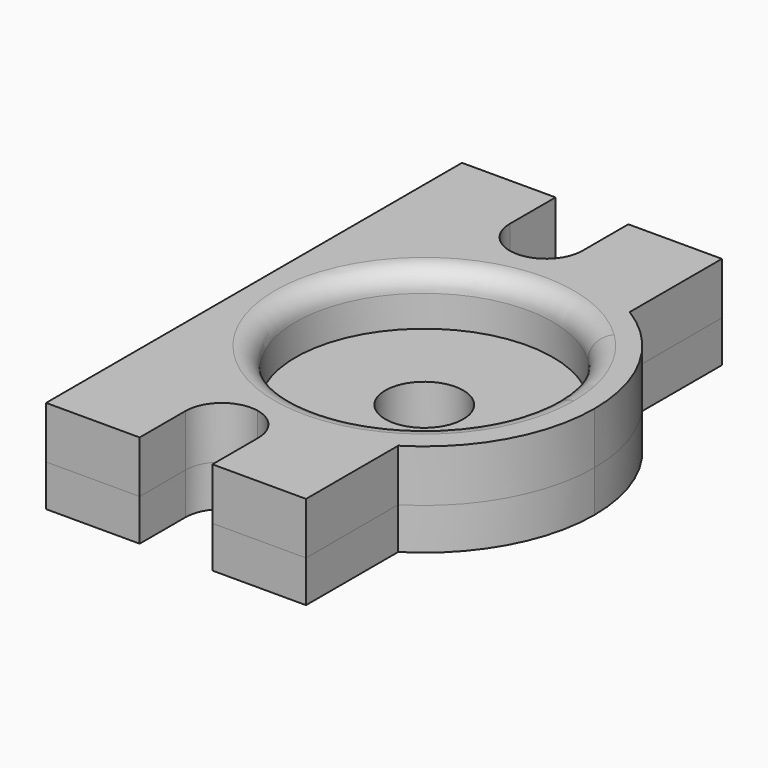
from build123d import *

# Parameters (mm, degrees)
F0_R     = 1.905
F1_DEPTH = 2.032
F2_DEPTH = 2.54
F3_R     = 1.016


with BuildPart() as f1:
    # F0 (on Top) → F1 (new body)
    with BuildSketch(Plane.XY):
        with BuildLine():
            Line((6.35, 4.5080527947), (6.35, 7.0710607408))
            ThreePointArc((6.35, 7.0710607408), (3.4516559454, 8.1852117072), (0.3466541063, 8.1588637779))
            ThreePointArc((0.3466541063, 8.1588637779), (-4.4614598428, 5.2775997073), (-6.35, 1.93e-08))
            ThreePointArc((-6.35, 1.93e-08), (-4.4614598575, -5.2775996893), (0.3466540985, -8.1588637764))
            ThreePointArc((0.3466540985, -8.1588637764), (3.4516559415, -8.1852117079), (6.35, -7.0710607408))
            Line((6.35, -7.0710607408), (6.35, -4.5080527947))
            ThreePointArc((6.35, -4.5080527947), (-4.318, 0), (6.35, 4.5080527947))
        make_face()
        with BuildLine():
            Line((6.35, -4.5080527947), (6.35, 4.5080527947))
            ThreePointArc((6.35, 4.5080527947), (-4.318, 0), (6.35, -4.5080527947))
        make_face()
        with Locations((1.9685, 0)):
            Circle(F0_R, mode=Mode.SUBTRACT)
        with BuildLine():
            ThreePointArc((8.255, 0), (7.7591986625, 2.4470168062), (6.35, 4.5080527947))
            Line((6.35, 4.5080527947), (6.35, -4.5080527947))
            ThreePointArc((6.35, -4.5080527947), (7.7591986625, -2.4470168062), (8.255, 0))
        make_face()
        with BuildLine():
            ThreePointArc((10.287, 0), (9.2364071953, 4.0465994675), (6.35, 7.0710607408))
            Line((6.35, 7.0710607408), (6.35, 4.5080527947))
            ThreePointArc((6.35, 4.5080527947), (7.7591986625, 2.4470168062), (8.255, 0))
            ThreePointArc((8.255, 0), (7.7591986625, -2.4470168062), (6.35, -4.5080527947))
            Line((6.35, -4.5080527947), (6.35, -7.0710607408))
            ThreePointArc((6.35, -7.0710607408), (9.2364071953, -4.0465994675), (10.287, 0))
        make_face()
        with BuildLine():
            Line((-1.778, 9.9027430543), (-1.778, 12.7))
            Line((-1.778, 12.7), (-6.35, 12.7))
            Line((-6.35, 12.7), (-6.35, 1.93e-08))
            ThreePointArc((-6.35, 1.93e-08), (-4.4614598428, 5.2775997073), (0.3466541063, 8.1588637779))
            ThreePointArc((0.3466541063, 8.1588637779), (-1.1280365683, 8.528400484), (-1.778, 9.9027430543))
        make_face()
        with BuildLine():
            Line((6.35, 7.0710607408), (6.35, 12.7))
            Line((6.35, 12.7), (1.778, 12.7))
            Line((1.778, 12.7), (1.778, 9.9027430543))
            ThreePointArc((1.778, 9.9027430543), (1.3743425703, 8.774706486), (0.3466541063, 8.1588637779))
            ThreePointArc((0.3466541063, 8.1588637779), (3.4516559454, 8.1852117072), (6.35, 7.0710607408))
        make_face()
        with BuildLine():
            Line((6.35, -12.7), (6.35, -7.0710607408))
            ThreePointArc((6.35, -7.0710607408), (3.4516559415, -8.1852117079), (0.3466540985, -8.1588637764))
            ThreePointArc((0.3466540985, -8.1588637764), (1.3743425678, -8.7747064829), (1.778, -9.9027430543))
            Line((1.778, -9.9027430543), (1.778, -12.7))
            Line((1.778, -12.7), (6.35, -12.7))
        make_face()
        with BuildLine():
            ThreePointArc((0.3466540985, -8.1588637764), (-4.4614598575, -5.2775996893), (-6.35, 1.93e-08))
            Line((-6.35, 1.93e-08), (-6.35, -12.7))
            Line((-6.35, -12.7), (-1.778, -12.7))
            Line((-1.778, -12.7), (-1.778, -9.9027430543))
            ThreePointArc((-1.778, -9.9027430543), (-1.1280365714, -8.5284004866), (0.3466540985, -8.1588637764))
        make_face()
    extrude(amount=-F1_DEPTH)

    # F0 (on Top) → F2 (join)
    with BuildSketch(Plane.XY):
        with BuildLine():
            Line((6.35, 4.5080527947), (6.35, 7.0710607408))
            ThreePointArc((6.35, 7.0710607408), (3.4516559454, 8.1852117072), (0.3466541063, 8.1588637779))
            ThreePointArc((0.3466541063, 8.1588637779), (-4.4614598428, 5.2775997073), (-6.35, 1.93e-08))
            ThreePointArc((-6.35, 1.93e-08), (-4.4614598575, -5.2775996893), (0.3466540985, -8.1588637764))
            ThreePointArc((0.3466540985, -8.1588637764), (3.4516559415, -8.1852117079), (6.35, -7.0710607408))
            Line((6.35, -7.0710607408), (6.35, -4.5080527947))
            ThreePointArc((6.35, -4.5080527947), (-4.318, 0), (6.35, 4.5080527947))
        make_face()
        with BuildLine():
            ThreePointArc((10.287, 0), (9.2364071953, 4.0465994675), (6.35, 7.0710607408))
            Line((6.35, 7.0710607408), (6.35, 4.5080527947))
            ThreePointArc((6.35, 4.5080527947), (7.7591986625, 2.4470168062), (8.255, 0))
            ThreePointArc((8.255, 0), (7.7591986625, -2.4470168062), (6.35, -4.5080527947))
            Line((6.35, -4.5080527947), (6.35, -7.0710607408))
            ThreePointArc((6.35, -7.0710607408), (9.2364071953, -4.0465994675), (10.287, 0))
        make_face()
        with BuildLine():
            Line((6.35, 7.0710607408), (6.35, 12.7))
            Line((6.35, 12.7), (1.778, 12.7))
            Line((1.778, 12.7), (1.778, 9.9027430543))
            ThreePointArc((1.778, 9.9027430543), (1.3743425703, 8.774706486), (0.3466541063, 8.1588637779))
            ThreePointArc((0.3466541063, 8.1588637779), (3.4516559454, 8.1852117072), (6.35, 7.0710607408))
        make_face()
        with BuildLine():
            Line((-1.778, 9.9027430543), (-1.778, 12.7))
            Line((-1.778, 12.7), (-6.35, 12.7))
            Line((-6.35, 12.7), (-6.35, 1.93e-08))
            ThreePointArc((-6.35, 1.93e-08), (-4.4614598428, 5.2775997073), (0.3466541063, 8.1588637779))
            ThreePointArc((0.3466541063, 8.1588637779), (-1.1280365683, 8.528400484), (-1.778, 9.9027430543))
        make_face()
        with BuildLine():
            Line((6.35, -12.7), (6.35, -7.0710607408))
            ThreePointArc((6.35, -7.0710607408), (3.4516559415, -8.1852117079), (0.3466540985, -8.1588637764))
            ThreePointArc((0.3466540985, -8.1588637764), (1.3743425678, -8.7747064829), (1.778, -9.9027430543))
            Line((1.778, -9.9027430543), (1.778, -12.7))
            Line((1.778, -12.7), (6.35, -12.7))
        make_face()
        with BuildLine():
            ThreePointArc((0.3466540985, -8.1588637764), (-4.4614598575, -5.2775996893), (-6.35, 1.93e-08))
            Line((-6.35, 1.93e-08), (-6.35, -12.7))
            Line((-6.35, -12.7), (-1.778, -12.7))
            Line((-1.778, -12.7), (-1.778, -9.9027430543))
            ThreePointArc((-1.778, -9.9027430543), (-1.1280365714, -8.5284004866), (0.3466540985, -8.1588637764))
        make_face()
    extrude(amount=F2_DEPTH)

    # F3
    f3_edges = [f1.edges().sort_by_distance(p)[0] for p in [
        (-2.413, -4.508053, 2.54),
    ]]
    fillet(f3_edges, radius=F3_R)


solid = f1.part
